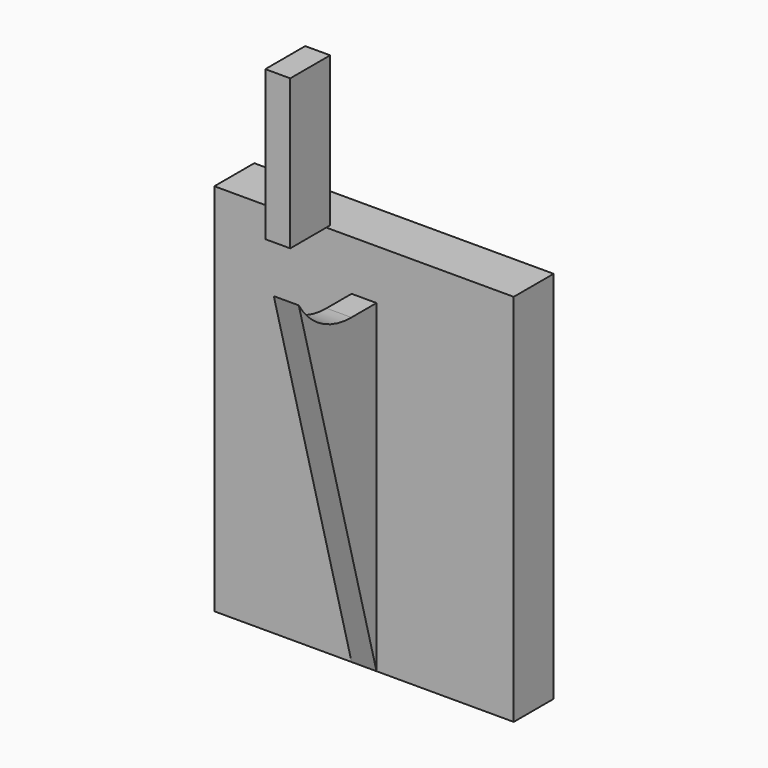
from build123d import *

# Parameters (mm, degrees)
F1_DEPTH = 60
F0_W     = 20
F0_H     = 60
F2_DEPTH = 5


with BuildPart() as f1:
    # F0 (on Right) → F1 (new body, symmetric)
    with BuildSketch(Plane.YZ):
        Polygon((-9.228598, 55.852219), (-9.228598, -74.08178), (10.771402, -74.08178), (10.771402, 75.91822), (-9.228598, 75.91822), align=None)
    extrude(amount=F1_DEPTH, both=True)

    # F0 (on Right) → F2 (join, symmetric)
    with BuildSketch(Plane.YZ):
        Polygon((-9.228598, 55.852219), (-9.228598, -74.08178), (10.771402, -74.08178), (10.771402, 75.91822), (-9.228598, 75.91822), align=None)
        with BuildLine():
            Line((-48.187838, 70.856222), (-9.228598, -74.08178))
            Line((-9.228598, -74.08178), (-9.228598, 55.852219))
            Line((-9.228598, 55.852219), (-21.775022, 55.852219))
            ThreePointArc((-21.775022, 55.852219), (-36.963479, 59.865052), (-48.187838, 70.856222))
        make_face()
        with Locations((-42.457013, 122.696764)):
            Rectangle(F0_W, F0_H)
    extrude(amount=F2_DEPTH, both=True)


solid = f1.part
